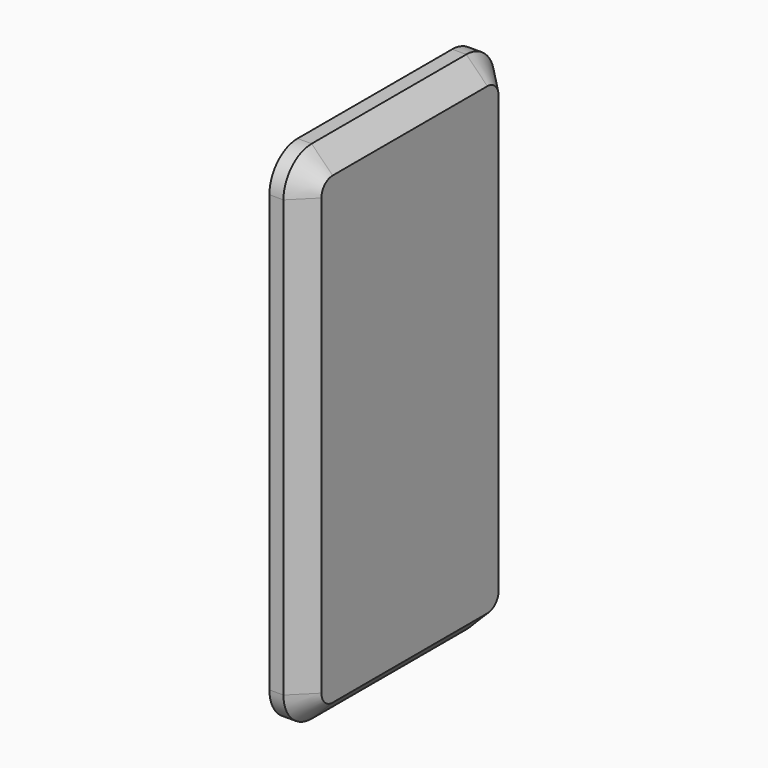
from build123d import *

# Parameters (mm, degrees)
SKETCH156_W             = 75
SKETCH156_H             = 144
PAD044_DEPTH            = 10
FILLET024_R             = 10
CHAMFER009_SIZE         = 6
SKETCH164_R             = 2
POCKET055_DEPTH         = 8
BODY015_PLACEMENT_ANGLE = 180


with BuildPart() as part:
    # Sketch156 → Pad044 (new body)
    with BuildSketch(Plane.YZ):
        with Locations((0.5, 0)):
            Rectangle(SKETCH156_W, SKETCH156_H)
    extrude(amount=PAD044_DEPTH)

    # Fillet024
    fillet024_edges = [part.edges().sort_by_distance(p)[0] for p in [
        (5, 38, -72),
        (5, -37, -72),
        (5, -37, 72),
        (5, 38, 72),
    ]]
    fillet(fillet024_edges, radius=FILLET024_R)

    # Chamfer009
    chamfer009_edges = [part.edges().sort_by_distance(p)[0] for p in [
        (0, 0.5, 72),
        (0, -37, 0),
        (0, 38, 0),
        (0, 0.5, -72),
    ]]
    chamfer(chamfer009_edges, length=CHAMFER009_SIZE)

    # Sketch164 (on Face4 of Chamfer009) → Pocket055 (cut)
    with BuildSketch(Plane.YZ.offset(10)):
        with Locations((-15, 55)):
            Circle(SKETCH164_R)
        with Locations((26, 55)):
            Circle(SKETCH164_R)
        with Locations((-15, -50)):
            Circle(SKETCH164_R)
        with Locations((26, -50)):
            Circle(SKETCH164_R)
    extrude(amount=-POCKET055_DEPTH, mode=Mode.SUBTRACT)


with BuildPart() as part_1:
    # Body015 placement: moved
    add(part.part.moved(Location((-7.9, -144.9, 0))).rotate(Axis((-7.9, -144.9, 0), (0, 0, 1)), BODY015_PLACEMENT_ANGLE))


solid = part_1.part
